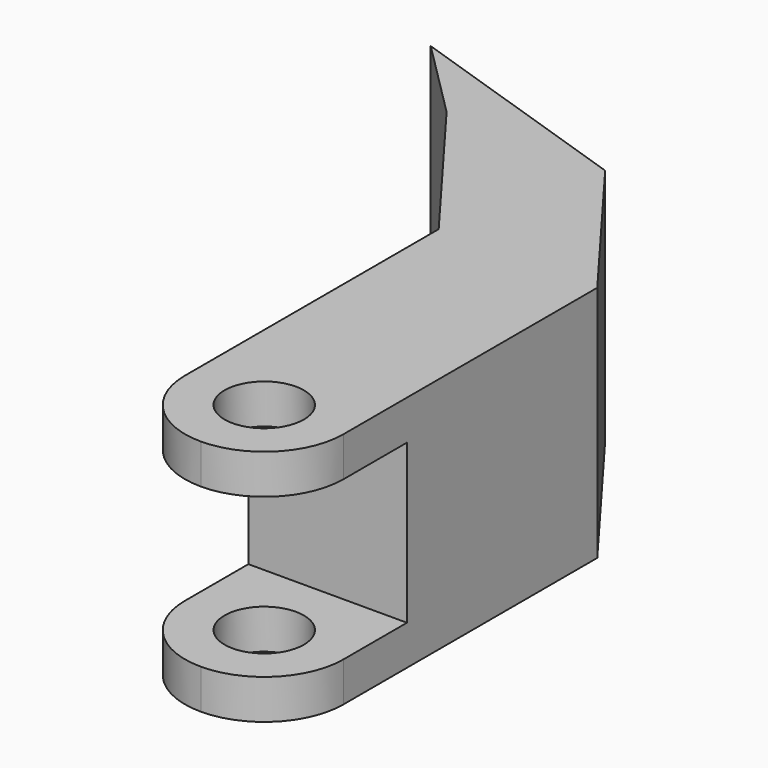
from build123d import *

# Parameters (mm, degrees)
F0_W     = 101.6
F0_H     = 152.4
F0_H_2   = 101.6
F1_DEPTH = 152.4
F2_W     = 101.6
F2_H     = 101.6
F3_DEPTH = 228.601
F4_R     = 25.4
F5_DEPTH = 152.401


with BuildPart() as f1:
    # F0 (on Top) → F1 (new body)
    with BuildSketch(Plane.XY):
        with Locations((50.8, 76.2)):
            Rectangle(F0_W, F0_H)
        with Locations((50.8, -50.8)):
            Rectangle(F0_W, F0_H_2)
        Polygon((-76.2, 254), (0, 152.4), (101.6, 152.4), (25.4, 254), align=None)
        Polygon((-127, 304.8), (-76.2, 254), (25.4, 254), align=None)
    extrude(amount=F1_DEPTH)

    # F2 (on face) → F3 (cut, through all)
    with BuildSketch(Plane.YZ.offset(101.6)):
        with Locations((-50.8, 76.2)):
            Rectangle(F2_W, F2_H)
    extrude(amount=-F3_DEPTH, mode=Mode.SUBTRACT)

    # F4 (on face) → F5 (cut, through all)
    with BuildSketch(Plane.XY.offset(152.4)):
        with Locations((50.8, -50.8)):
            Circle(F4_R)
        with BuildLine():
            ThreePointArc((101.6, -50.8), (86.721024, -86.721024), (50.8, -101.6))
            Line((50.8, -101.6), (101.6, -101.6))
            Line((101.6, -101.6), (101.6, -50.8))
        make_face()
        with BuildLine():
            ThreePointArc((50.8, -101.6), (14.878976, -86.721024), (0, -50.8))
            Line((0, -50.8), (0, -101.6))
            Line((0, -101.6), (50.8, -101.6))
        make_face()
    extrude(amount=-F5_DEPTH, mode=Mode.SUBTRACT)


solid = f1.part
